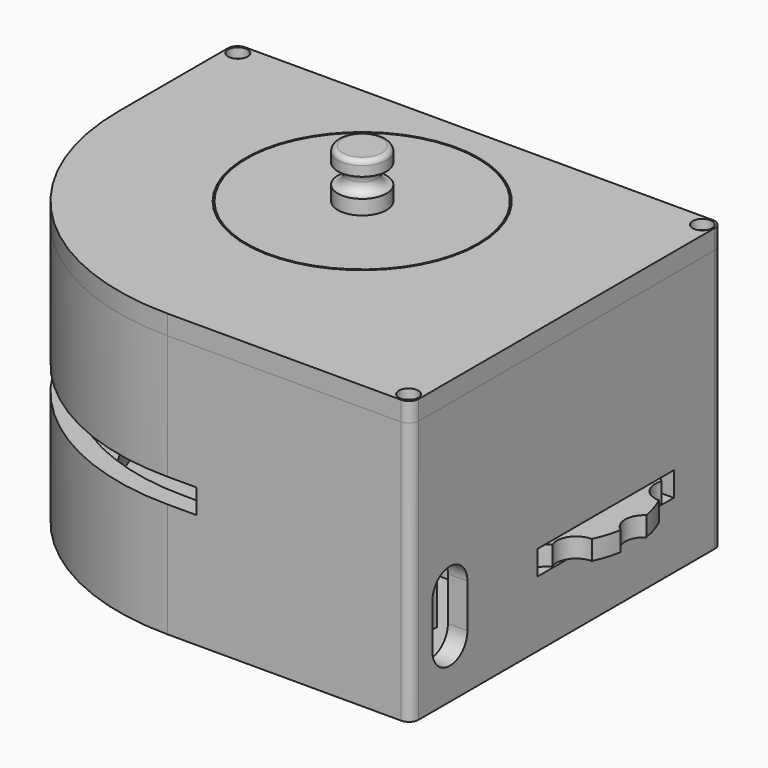
from build123d import *

# Parameters (mm, degrees)
PAD_DEPTH                   = 8
SKETCH008_W                 = 26
SKETCH008_H                 = 26
PAD003_DEPTH                = 10
PAD006_DEPTH                = 50
SKETCH021_R                 = 1.8
POCKET_DEPTH                = 4
SKETCH022_R                 = 1.8
POCKET013_DEPTH             = 16
SKETCH023_W                 = 35
SKETCH023_H                 = 5
POCKET014_DEPTH             = 4
SKETCH024_W                 = 56
SKETCH024_H                 = 5
POCKET015_DEPTH             = 56
PAD008_DEPTH                = 4
SKETCH054_W                 = 25
SKETCH054_H                 = 4.5
PAD023_DEPTH                = 15
POCKET027_DEPTH             = 5
SKETCH056_W                 = 80
SKETCH056_H                 = 4
POCKET028_DEPTH             = 100
POCKET029_DEPTH             = 5
PAD024_DEPTH                = 35
POCKET037_DEPTH             = 5
SKETCH067_W                 = 6
SKETCH067_H                 = 12
PAD026_DEPTH                = 10
POCKET041_DEPTH             = 21
POCKET042_DEPTH             = 10
SKETCH073_W                 = 35
SKETCH073_H                 = 2
POCKET043_DEPTH             = 1
FILLET003_R                 = 0.99
SKETCH074_R                 = 1
POCKET044_DEPTH             = 8
FILLET004_R                 = 2
SKETCH002_W                 = 50
SKETCH002_H                 = 20
PAD001_DEPTH                = 4
SKETCH003_R                 = 5
POCKET001_DEPTH             = 2
SKETCH004_R                 = 2.2
POCKET002_DEPTH             = 2
SKETCH016_W                 = 13.2
SKETCH016_H                 = 13.2
SKETCH016_W_2               = 43
SKETCH016_H_2               = 20
PAD007_DEPTH                = 35
SKETCH017_W                 = 10
SKETCH017_H                 = 27
POCKET009_DEPTH             = 5
SKETCH061_W                 = 4
SKETCH061_H                 = 27
POCKET032_DEPTH             = 6
SKETCH062_W                 = 4
SKETCH062_H                 = 10
POCKET033_DEPTH             = 31
POCKET034_DEPTH             = 22
POCKET035_DEPTH             = 30
POCKET036_DEPTH             = 4
SKETCH075_W                 = 2
SKETCH075_H                 = 2
POCKET045_DEPTH             = 5
SKETCH076_W                 = 13.2
SKETCH076_H                 = 13.2
SKETCH076_R                 = 5
PAD027_DEPTH                = 5
PAD012_DEPTH                = 4
PAD013_DEPTH                = 45
PAD014_DEPTH                = 2
SKETCH043_R                 = 20
POCKET021_DEPTH             = 6
SKETCH044_R                 = 24
POCKET022_DEPTH             = 2
SKETCH052_R                 = 2
POCKET025_DEPTH             = 2
SKETCH053_R                 = 1
POCKET026_DEPTH             = 2
FILLET006_R                 = 2
SKETCH045_R                 = 23.7
PAD019_DEPTH                = 2
SKETCH046_R                 = 5
PAD020_DEPTH                = 3
SKETCH047_R                 = 3
PAD021_DEPTH                = 4
SKETCH048_R                 = 5
PAD022_DEPTH                = 3
FILLET_R                    = 1.999
FILLET001_R                 = 1.9999
FILLET002_R                 = 1
CYLINDER002_R               = 2.45
CYLINDER002_DEPTH           = 10
CYLINDER002_PITCH_ANGLE     = 90
CYLINDER002_PLACEMENT_ANGLE = 35
CYLINDER001_R               = 2.45
CYLINDER001_DEPTH           = 10
CYLINDER001_PITCH_ANGLE     = 90
CYLINDER001_PLACEMENT_ANGLE = -35
CYLINDER_R                  = 2.45
CYLINDER_DEPTH              = 10
SKETCH010_R                 = 20
PAD004_DEPTH                = 4
PAD005_DEPTH                = 8
SKETCH012_R                 = 6.5
POCKET006_DEPTH             = 2
SKETCH013_R                 = 2.2
POCKET007_DEPTH             = 2
PAD025_DEPTH                = 4
SKETCH060_R                 = 4
POCKET031_DEPTH             = 5


with BuildPart() as body:
    # Sketch → Pad (new body)
    with BuildSketch(Plane.XY):
        with BuildLine():
            Line((50, -50), (50, 30))
            Line((50, 30), (-50, 30))
            Line((-50, 30), (-50, -3.833e-07))
            ThreePointArc((-50, -3.833e-07), (-35.3553389238, -35.3553391948), (0, -50))
            Line((0, -50), (50, -50))
        make_face()
    extrude(amount=PAD_DEPTH)

    # Sketch008 → Pad003 (join)
    with BuildSketch(Plane.XY.offset(8)):
        with Locations((36, 0)):
            Rectangle(SKETCH008_W, SKETCH008_H)
    extrude(amount=PAD003_DEPTH)

    # Sketch014 → Pad006 (join)
    with BuildSketch(Plane.XY.offset(8)):
        with BuildLine():
            Line((-50, 30), (50, 30))
            Line((50, 30), (50, -50))
            Line((50, -50), (0, -50))
            ThreePointArc((-50, -3.833e-07), (-35.3553389238, -35.3553391948), (0, -50))
            Line((-50, 30), (-50, -3.833e-07))
        make_face()
        with BuildLine():
            Line((0, -46), (46, -46))
            Line((46, -46), (46, 26))
            Line((46, 26), (-46, 26))
            Line((-46, 26), (-46, 0))
            ThreePointArc((-46, 0), (-32.5269119346, -32.5269119346), (0, -46))
        make_face(mode=Mode.SUBTRACT)
    extrude(amount=PAD006_DEPTH)

    # Sketch021 (on Face18 of Pad006) → Pocket (cut)
    with BuildSketch(Plane.XY.offset(8)):
        Circle(SKETCH021_R)
    extrude(amount=-POCKET_DEPTH, mode=Mode.SUBTRACT)

    # Sketch022 (on Face20 of Pocket) → Pocket013 (cut)
    with BuildSketch(Plane.XY.offset(18)):
        with Locations((36, 0)):
            Circle(SKETCH022_R)
    extrude(amount=-POCKET013_DEPTH, mode=Mode.SUBTRACT)

    # Sketch023 (on Face7 of Pocket013) → Pocket014 (cut)
    with BuildSketch(Plane.YZ.offset(50)):
        with Locations((0, 20)):
            Rectangle(SKETCH023_W, SKETCH023_H)
    extrude(amount=-POCKET014_DEPTH, mode=Mode.SUBTRACT)

    # Sketch024 (on Face11 of Pocket014) → Pocket015 (cut)
    with BuildSketch(Plane.XZ.offset(50)):
        with Locations((-22, 30)):
            Rectangle(SKETCH024_W, SKETCH024_H)
    extrude(amount=-POCKET015_DEPTH, mode=Mode.SUBTRACT)

    # Sketch026 (on Face29 of Pocket015) → Pad008 (join)
    with BuildSketch(Plane.XY.offset(8)):
        with BuildLine():
            Line((4, -35.2), (4, -46))
            Line((4, -46), (0, -46))
            ThreePointArc((-46, 0), (-32.5269119346, -32.5269119346), (0, -46))
            Line((-46, 4), (-46, 0))
            Line((-35.2, 4), (-46, 4))
            Line((-35.2, 4), (-35.2, 1.5))
            Line((-35.2, 1.5), (-38.2, 1.5))
            ThreePointArc((-38.2, 1.5), (-39.2606601718, 1.0606601718), (-39.7, 0))
            Line((-39.7, 0), (-39.7, -0.9))
            ThreePointArc((-39.5776887712, -3.1139286322), (-39.1499808692, -1.9799564458), (-39.7, -0.9))
            ThreePointArc((-39.5776887712, -3.1139286322), (-28.0721392131, -28.0721392131), (-3.1139286322, -39.5776887712))
            ThreePointArc((-0.9, -39.7), (-1.9799564458, -39.1499808692), (-3.1139286322, -39.5776887712))
            Line((0, -39.7), (-0.9, -39.7))
            ThreePointArc((0, -39.7), (1.0606601718, -39.2606601718), (1.5, -38.2))
            Line((1.5, -35.2), (1.5, -38.2))
            Line((4, -35.2), (1.5, -35.2))
        make_face()
    extrude(amount=PAD008_DEPTH)

    # Sketch054 (on Face24 of Pad008) → Pad023 (join)
    with BuildSketch(Plane.XZ.offset(-26)):
        with Locations((21.5, 19.75)):
            Rectangle(SKETCH054_W, SKETCH054_H)
    extrude(amount=PAD023_DEPTH)

    # Sketch055 (on Face37 of Pad023) → Pocket027 (cut)
    with BuildSketch(Plane.XY.offset(22)):
        with BuildLine():
            ThreePointArc((20.8504209107, 17.1537474093), (24.1276241559, 16.1042011831), (23.4745260648, 19.4828209123))
            ThreePointArc((20.5, 26), (20.6122145801, 22.1138202969), (23.4745260648, 19.4828209123))
            Line((34, 26), (20.5, 26))
            Line((34, 11), (34, 26))
            Line((9, 11), (34, 11))
            Line((9, 26), (9, 11))
            Line((12.5, 26), (9, 26))
            ThreePointArc((20.8504209107, 17.1537474093), (17.8792573436, 22.7134338706), (12.5, 26))
        make_face()
    extrude(amount=-POCKET027_DEPTH, mode=Mode.SUBTRACT)

    # Sketch056 (on Face2 of Pocket027) → Pocket028 (cut)
    with BuildSketch(Plane.YZ.offset(50)):
        with Locations((-10, 2)):
            Rectangle(SKETCH056_W, SKETCH056_H)
    extrude(amount=-POCKET028_DEPTH, mode=Mode.SUBTRACT)

    # Sketch057 (on Face4 of Pocket028) → Pocket029 (cut)
    with BuildSketch(Plane.YZ.offset(50)):
        with BuildLine():
            ThreePointArc((-35.5, 24), (-40, 28.5), (-44.5, 24))
            Line((-44.5, 24), (-44.5, 15))
            ThreePointArc((-44.5, 15), (-40, 10.5), (-35.5, 15))
            Line((-35.5, 24), (-35.5, 15))
        make_face()
    extrude(amount=-POCKET029_DEPTH, mode=Mode.SUBTRACT)

    # Sketch058 (on Face23 of Pocket029) → Pad024 (join)
    with BuildSketch(Plane.XY.offset(8)):
        Polygon((37, -27), (9, -27), (9, -46), (11, -46), (11, -29), (37, -29), align=None)
    extrude(amount=PAD024_DEPTH)

    # Sketch066 (on Face36 of Pad024) → Pocket037 (cut)
    with BuildSketch(Plane.YZ.offset(11)):
        with BuildLine():
            ThreePointArc((-46, 18), (-42.4644660941, 19.4644660941), (-41, 23))
            Line((-41, 23), (-41, 43))
            Line((-41, 43), (-46, 43))
            Line((-46, 43), (-46, 18))
        make_face()
    extrude(amount=-POCKET037_DEPTH, mode=Mode.SUBTRACT)

    # Sketch067 (on Face26 of Pocket037) → Pad026 (join)
    with BuildSketch(Plane(origin=(0, -46, 0), x_dir=(-1, 0, 0), z_dir=(0, 1, 0))):
        with Locations((-36.5, 32)):
            Rectangle(SKETCH067_W, SKETCH067_H)
        with Locations((-21.5, 32)):
            Rectangle(SKETCH067_W, SKETCH067_H)
    extrude(amount=PAD026_DEPTH)

    # Sketch071 → Pocket041 (cut)
    with BuildSketch(Plane(origin=(18.5, 0, 0), x_dir=(0, -1, 0), z_dir=(-1, 0, 0))):
        with BuildLine():
            Line((46, 38), (36, 38))
            Line((36, 38), (36, 26))
            Line((36, 26), (46, 26))
            Line((46, 26), (46, 27.822348431))
            Line((46, 27.822348431), (41, 33))
            ThreePointArc((39.0603073792, 32.6579798567), (40.1736481777, 32.015192247), (41, 33))
            Line((37.8439115247, 36), (39.0603073792, 32.6579798567))
            Line((41, 36), (37.8439115247, 36))
            Line((46, 30.822348431), (41, 36))
            Line((46, 38), (46, 30.822348431))
        make_face()
    extrude(amount=-POCKET041_DEPTH, mode=Mode.SUBTRACT)

    # Sketch072 (on Face90 of Pocket041) → Pocket042 (cut)
    with BuildSketch(Plane(origin=(0, -44.9871918014, 16.3739987389), x_dir=(-1, 0, 0), z_dir=(0, 0.9396926208, -0.3420201433))):
        Polygon((19.5, -37.8439115247), (18.5, -37.8439115247), (18.5, -46), align=None)
        Polygon((23.5, -37.8439115247), (24.5, -37.8439115247), (24.5, -46), align=None)
        Polygon((34.5, -37.8439115247), (33.5, -37.8439115247), (33.5, -46), align=None)
        Polygon((38.5, -37.8439115247), (39.5, -37.8439115247), (39.5, -46), align=None)
    extrude(amount=-POCKET042_DEPTH, mode=Mode.SUBTRACT)

    # Sketch073 (on Face23 of Pocket042) → Pocket043 (cut)
    with BuildSketch(Plane.XY.offset(8)):
        with Locations((28.5, -41)):
            Rectangle(SKETCH073_W, SKETCH073_H)
    extrude(amount=-POCKET043_DEPTH, mode=Mode.SUBTRACT)

    # Fillet003
    fillet003_edges = [body.edges().sort_by_distance(p)[0] for p in [
        (28.5, -42, 7),
        (28.5, -40, 7),
    ]]
    fillet(fillet003_edges, radius=FILLET003_R)

    # Sketch074 (on Face37 of Fillet003) → Pocket044 (cut)
    with BuildSketch(Plane.XY.offset(58)):
        with Locations((47.7, -47.7)):
            Circle(SKETCH074_R)
        with Locations((47.7, 27.7)):
            Circle(SKETCH074_R)
        with Locations((-47.7, 27.7)):
            Circle(SKETCH074_R)
    extrude(amount=-POCKET044_DEPTH, mode=Mode.SUBTRACT)

    # Fillet004
    fillet004_edges = [body.edges().sort_by_distance(p)[0] for p in [
        (50, 30, 33),
        (-50, 30, 33),
        (50, -50, 33),
    ]]
    fillet(fillet004_edges, radius=FILLET004_R)


with BuildPart() as body002:
    # Sketch002 (on Face1 of CopyPocket) → Pad001 (new body)
    with BuildSketch(Plane.XY.offset(8)):
        with Locations((-15, 0)):
            Rectangle(SKETCH002_W, SKETCH002_H)
    extrude(amount=PAD001_DEPTH)

    # Sketch003 (on Face6 of Pad001) → Pocket001 (cut)
    with BuildSketch(Plane.XY.offset(12)):
        Circle(SKETCH003_R)
    extrude(amount=-POCKET001_DEPTH, mode=Mode.SUBTRACT)

    # Sketch004 (on Face8 of Pocket001) → Pocket002 (cut)
    with BuildSketch(Plane.XY.offset(10)):
        Circle(SKETCH004_R)
    extrude(amount=-POCKET002_DEPTH, mode=Mode.SUBTRACT)

    # Sketch016 (on Face5 of Pocket002) → Pad007 (join)
    with BuildSketch(Plane.XY.offset(12)):
        Polygon((10, -10), (10, 10), (-18, 10), (-18, 6), (-14, 6), (-14, 8), (-11.6, 8), (-11.6, -8), (-14, -8), (-14, -6), (-18, -6), (-18, -10), align=None)
        Rectangle(SKETCH016_W, SKETCH016_H, mode=Mode.SUBTRACT)
        with Locations((-48.5, 0)):
            Rectangle(SKETCH016_W_2, SKETCH016_H_2)
    extrude(amount=PAD007_DEPTH)

    # Sketch017 (on Face7 of Pad007) → Pocket009 (cut)
    with BuildSketch(Plane.XZ.offset(10)):
        with Locations((0, 29.5)):
            Rectangle(SKETCH017_W, SKETCH017_H)
    extrude(amount=-POCKET009_DEPTH, mode=Mode.SUBTRACT)

    # Sketch061 (on Face5 of Pocket009) → Pocket032 (cut)
    with BuildSketch(Plane.YZ.offset(10)):
        with Locations((0, 29.5)):
            Rectangle(SKETCH061_W, SKETCH061_H)
    extrude(amount=-POCKET032_DEPTH, mode=Mode.SUBTRACT)

    # Sketch062 (on Face13 of Pocket032) → Pocket033 (cut)
    with BuildSketch(Plane.XY.offset(47)):
        with Locations((-9.6, 0)):
            Rectangle(SKETCH062_W, SKETCH062_H)
    extrude(amount=-POCKET033_DEPTH, mode=Mode.SUBTRACT)

    # Sketch063 (on Face11 of Pocket033) → Pocket034 (cut)
    with BuildSketch(Plane(origin=(0, 10, 0), x_dir=(-1, 0, 0), z_dir=(0, 1, 0))):
        Polygon((30, 12), (39.237604307, 28), (59.237604307, 28), (59.237604307, 32), (38.5470053838, 32), (27, 12), (27, 47), (70, 47), (70, 12), align=None)
    extrude(amount=-POCKET034_DEPTH, mode=Mode.SUBTRACT)

    # Sketch064 (on Face21 of Pocket034) → Pocket035 (cut)
    with BuildSketch(Plane.XY.offset(32)):
        Polygon((-18, 10), (-59.237604307, 3.5), (-59.237604307, 10), align=None)
        Polygon((-59.237604307, -3.5), (-18, -10), (-59.237604307, -10), align=None)
    extrude(amount=-POCKET035_DEPTH, mode=Mode.SUBTRACT)

    # Sketch065 (on Face4 of Pocket035) → Pocket036 (cut)
    with BuildSketch(Plane(origin=(0, 0, 8), x_dir=(1, 0, 0), z_dir=(0, 0, -1))):
        with BuildLine():
            ThreePointArc((-37.0369714429, 1.7528819865), (-39.99999, 0), (-37.0369714429, -1.7528819865))
            ThreePointArc((-30, -2.8064223218), (-33.3407021184, -1.0921720969), (-37.0369714429, -1.7528819865))
            Line((-30, -8.108522517), (-30, -2.8064223218))
            Line((-40, -6.5322912811), (-30, -8.108522517))
            Line((-40, 6.5322912811), (-40, -6.5322912811))
            Line((-30, 8.108522517), (-40, 6.5322912811))
            Line((-30, 2.8064223218), (-30, 8.108522517))
            ThreePointArc((-37.0369714429, 1.7528819865), (-33.3407021184, 1.0921720969), (-30, 2.8064223218))
        make_face()
    extrude(amount=-POCKET036_DEPTH, mode=Mode.SUBTRACT)

    # Sketch075 (on Face39 of Pocket032) → Pocket045 (cut)
    with BuildSketch(Plane.YZ.offset(-6.6)):
        with Locations((0, 25.5)):
            Rectangle(SKETCH075_W, SKETCH075_H)
    extrude(amount=-POCKET045_DEPTH, mode=Mode.SUBTRACT)

    # Sketch076 (on Face55 of Pocket045) → Pad027 (join)
    with BuildSketch(Plane.XY.offset(12)):
        Rectangle(SKETCH076_W, SKETCH076_H)
        Circle(SKETCH076_R, mode=Mode.SUBTRACT)
    extrude(amount=PAD027_DEPTH)


with BuildPart() as body004:
    # Sketch036 (on Face1 of CopyPad006) → Pad012 (new body)
    with BuildSketch(Plane.XY.offset(58)):
        with BuildLine():
            Line((0, -50), (50, -50))
            Line((50, -50), (50, 30))
            Line((50, 30), (-50, 30))
            Line((-50, 30), (-50, 0))
            ThreePointArc((-50, 0), (-35.3553390593, -35.3553390593), (0, -50))
        make_face()
    extrude(amount=PAD012_DEPTH)

    # Sketch037 (on Face6 of Pad012) → Pad013 (join)
    with BuildSketch(Plane(origin=(0, 0, 58), x_dir=(1, 0, 0), z_dir=(0, 0, -1))):
        with BuildLine():
            ThreePointArc((0, 26), (-18.3847763109, 18.3847763109), (-26, 0))
            Line((-26, -15), (-26, 0))
            Line((-24, -15), (-26, -15))
            Line((-24, 0), (-24, -15))
            ThreePointArc((0, 24), (-16.9705627485, 16.9705627485), (-24, 0))
            Line((0, 24), (15, 24))
            Line((23, 24), (15, 24))
            Line((23, 26), (23, 24))
            Line((15, 26), (23, 26))
            Line((15, 26), (0, 26))
        make_face()
    extrude(amount=PAD013_DEPTH)

    # Sketch038 (on Face4 of Pad013) → Pad014 (join)
    with BuildSketch(Plane(origin=(0, 0, 58), x_dir=(1, 0, 0), z_dir=(0, 0, -1))):
        with BuildLine():
            Line((0, 46), (46, 46))
            Line((46, 46), (46, -26))
            Line((46, -26), (-46, -26))
            Line((-46, -26), (-46, 0))
            ThreePointArc((0, 46), (-32.5269119346, 32.5269119346), (-46, 0))
        make_face()
    extrude(amount=PAD014_DEPTH)

    # Sketch043 (on Face5 of Pad014) → Pocket021 (cut)
    with BuildSketch(Plane.XY.offset(62)):
        Circle(SKETCH043_R)
    extrude(amount=-POCKET021_DEPTH, mode=Mode.SUBTRACT)

    # Sketch044 (on Face5 of Pocket021) → Pocket022 (cut)
    with BuildSketch(Plane.XY.offset(62)):
        Circle(SKETCH044_R)
    extrude(amount=-POCKET022_DEPTH, mode=Mode.SUBTRACT)

    # Sketch052 (on Face5 of Pocket022) → Pocket025 (cut)
    with BuildSketch(Plane.XY.offset(62)):
        with Locations((-47.7, 27.7)):
            Circle(SKETCH052_R)
        with Locations((47.7, 27.7)):
            Circle(SKETCH052_R)
        with Locations((47.7, -47.71)):
            Circle(SKETCH052_R)
    extrude(amount=-POCKET025_DEPTH, mode=Mode.SUBTRACT)

    # Sketch053 (on Face21 of Pocket025) → Pocket026 (cut)
    with BuildSketch(Plane.XY.offset(60)):
        with Locations((-47.7, 27.7)):
            Circle(SKETCH053_R)
        with Locations((47.7, 27.7)):
            Circle(SKETCH053_R)
        with Locations((47.7, -47.71)):
            Circle(SKETCH053_R)
    extrude(amount=-POCKET026_DEPTH, mode=Mode.SUBTRACT)

    # Fillet006
    fillet006_edges = [body004.edges().sort_by_distance(p)[0] for p in [
        (-50, 30, 60),
        (50, 30, 60),
        (50, -50, 60),
    ]]
    fillet(fillet006_edges, radius=FILLET006_R)


with BuildPart() as body008:
    # Sketch045 (on Face1 of CopyPocket022) → Pad019 (new body)
    with BuildSketch(Plane.XY.offset(60)):
        Circle(SKETCH045_R)
    extrude(amount=PAD019_DEPTH)

    # Sketch046 (on Face3 of Pad019) → Pad020 (join)
    with BuildSketch(Plane.XY.offset(62)):
        Circle(SKETCH046_R)
    extrude(amount=PAD020_DEPTH)

    # Sketch047 (on Face5 of Pad020) → Pad021 (join)
    with BuildSketch(Plane.XY.offset(65)):
        Circle(SKETCH047_R)
    extrude(amount=PAD021_DEPTH)

    # Sketch048 (on Face7 of Pad021) → Pad022 (join)
    with BuildSketch(Plane.XY.offset(69)):
        Circle(SKETCH048_R)
    extrude(amount=PAD022_DEPTH)

    # Fillet
    fillet_edges = [body008.edges().sort_by_distance(p)[0] for p in [
        (-3, 0, 65),
    ]]
    fillet(fillet_edges, radius=FILLET_R)

    # Fillet001
    fillet001_edges = [body008.edges().sort_by_distance(p)[0] for p in [
        (-3, 0, 69),
    ]]
    fillet(fillet001_edges, radius=FILLET001_R)

    # Fillet002
    fillet002_edges = [body008.edges().sort_by_distance(p)[0] for p in [
        (-5, 0, 72),
    ]]
    fillet(fillet002_edges, radius=FILLET002_R)


with BuildPart() as cylinder002:
    # Cylinder002 → Cylinder002 (new body)
    with BuildSketch(Plane.XY):
        Circle(CYLINDER002_R)
    extrude(amount=CYLINDER002_DEPTH)


with BuildPart() as cylinder002_1:
    # Cylinder002 pitch: moved
    add(cylinder002.part.rotate(Axis((0, 0, 0), (0, 1, 0)), CYLINDER002_PITCH_ANGLE))


with BuildPart() as cylinder002_2:
    # Cylinder002 placement: moved
    add(cylinder002_1.part.moved(Location((17.9786550256, -12.6186815997, 26))).rotate(Axis((17.9786550256, -12.6186815997, 26), (0, 0, 1)), CYLINDER002_PLACEMENT_ANGLE))


with BuildPart() as cylinder001:
    # Cylinder001 → Cylinder001 (new body)
    with BuildSketch(Plane.XY):
        Circle(CYLINDER001_R)
    extrude(amount=CYLINDER001_DEPTH)


with BuildPart() as cylinder001_1:
    # Cylinder001 pitch: moved
    add(cylinder001.part.rotate(Axis((0, 0, 0), (0, 1, 0)), CYLINDER001_PITCH_ANGLE))


with BuildPart() as cylinder001_2:
    # Cylinder001 placement: moved
    add(cylinder001_1.part.moved(Location((17.9786550256, 12.6186815997, 26))).rotate(Axis((17.9786550256, 12.6186815997, 26), (0, 0, 1)), CYLINDER001_PLACEMENT_ANGLE))


with BuildPart() as fusion:
    # Cylinder → Cylinder (new body)
    with BuildSketch(Plane(origin=(14, 0, 26), x_dir=(0, 0, -1), z_dir=(1, 0, 0))):
        Circle(CYLINDER_R)
    extrude(amount=CYLINDER_DEPTH)

    # Fusion: union Cylinder002, Cylinder001
    add(cylinder002_2.part)
    add(cylinder001_2.part)


with BuildPart() as cut:
    # Sketch010 (on Face1 of CopyPocket005) → Pad004 (new body)
    with BuildSketch(Plane.XY.offset(18)):
        with Locations((36, 0)):
            Circle(SKETCH010_R)
    extrude(amount=PAD004_DEPTH)

    # Sketch011 (on Face3 of Pad004) → Pad005 (join)
    with BuildSketch(Plane.XY.offset(22)):
        with BuildLine():
            ThreePointArc((34.0830849496, 19.9079239673), (16, 0), (34.0830849496, -19.9079239673))
            Line((34.6581594647, -13.9355467772), (34.0830849496, -19.9079239673))
            ThreePointArc((34.6581594647, 13.9355467771), (22, 0), (34.6581594647, -13.9355467771))
            Line((34.6581594647, 13.9355467771), (34.0830849496, 19.9079239673))
        make_face()
    extrude(amount=PAD005_DEPTH)

    # Sketch012 (on Face3 of Pad005) → Pocket006 (cut)
    with BuildSketch(Plane.XY.offset(22)):
        with Locations((36, 0)):
            Circle(SKETCH012_R)
    extrude(amount=-POCKET006_DEPTH, mode=Mode.SUBTRACT)

    # Sketch013 (on Face10 of Pocket006) → Pocket007 (cut)
    with BuildSketch(Plane.XY.offset(20)):
        with Locations((36, 0)):
            Circle(SKETCH013_R)
    extrude(amount=-POCKET007_DEPTH, mode=Mode.SUBTRACT)

    # Sketch050 (on Face4 of Pocket007) → Pad025 (join)
    with BuildSketch(Plane.XY.offset(22)):
        with BuildLine():
            ThreePointArc((34.9137492618, 19.9704796971), (33.1870509873, 20.2108460341), (32.3992003421, 18.6556758608))
            Line((34.9137492618, 19.9704796971), (32.3992003421, 18.6556758608))
        make_face()
        with BuildLine():
            ThreePointArc((38.3564987818, 18.8532998038), (37.467313058, 20.3528369509), (35.7603409991, 19.9985640375))
            Line((35.7603409991, 19.9985640375), (38.3564987818, 18.8532998038))
        make_face()
        with BuildLine():
            ThreePointArc((27.1165222796, 16.7953512494), (25.5280448032, 17.5136841902), (24.3329777467, 16.2444018585))
            Line((27.1165222796, 16.7953512494), (24.3329777467, 16.2444018585))
        make_face()
        with BuildLine():
            ThreePointArc((23.6555989103, 15.735811442), (22.1033020219, 14.9423145753), (22.3499415212, 13.2165011832))
            Line((23.6555989103, 15.735811442), (22.3499415212, 13.2165011832))
        make_face()
        with BuildLine():
            ThreePointArc((19.089663348, 8.6625928172), (17.3764399276, 8.339903464), (17.1255287418, 6.6147059438))
            Line((17.1255287418, 6.6147059438), (19.089663348, 8.6625928172))
        make_face()
        with BuildLine():
            ThreePointArc((16.8623679619, 5.8095645253), (16.0459318975, 4.2692090275), (17.2378530427, 2.9969720643))
            Line((16.8623679619, 5.8095645253), (17.2378530427, 2.9969720643))
        make_face()
    extrude(amount=-PAD025_DEPTH)

    # Sketch060 (on Face22 of Pad025) → Pocket031 (cut)
    with BuildSketch(Plane.XY.offset(22)):
        with Locations((43.5244431529, 20.6732376574)):
            Circle(SKETCH060_R)
        with Locations((54.0213449744, 12.6186815997)):
            Circle(SKETCH060_R)
        with Locations((58, 0)):
            Circle(SKETCH060_R)
        with Locations((54.0213449744, -12.6186815997)):
            Circle(SKETCH060_R)
        with Locations((43.5244431532, -20.6732376573)):
            Circle(SKETCH060_R)
    extrude(amount=-POCKET031_DEPTH, mode=Mode.SUBTRACT)

    # Cut: cut Fusion
    add(fusion.part, mode=Mode.SUBTRACT)


solid = Compound([body.part, body002.part, body004.part, body008.part, cut.part])
